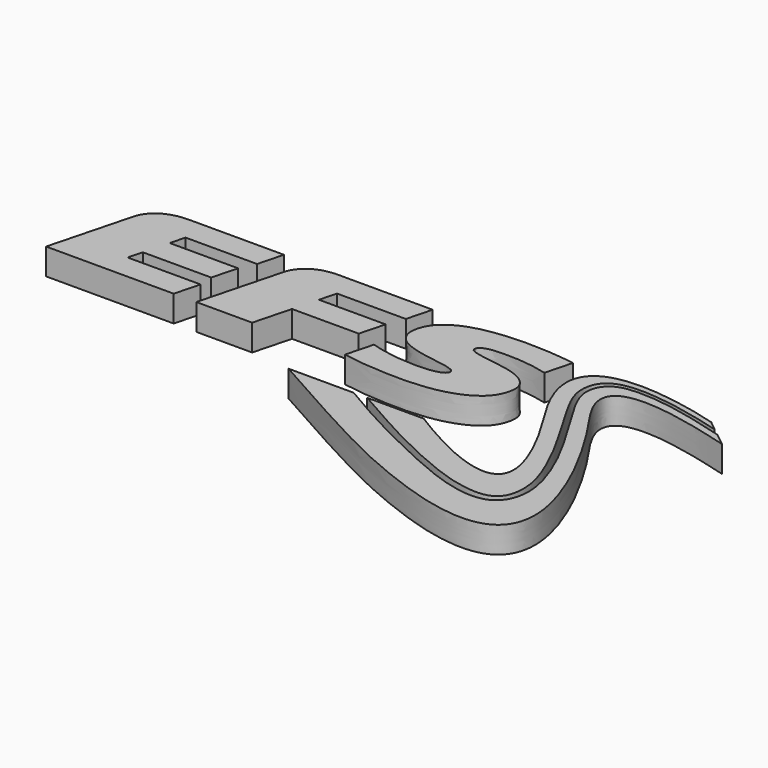
from build123d import *

# Parameters (mm, degrees)
F1_DEPTH = 25


with BuildPart() as f1:
    # F0 (on Top) → F1 (new body)
    with BuildSketch(Plane.XY):
        with BuildLine():
            add(Edge.make_bspline(
                [(65.1053886285, 53.0678573823), (65.106408714, 53.1253729675), (65.1054391941, 53.167987809), (65.1035589136, 53.2143526224)],
                knots=[0.2548003613, 0.2548003613, 0.2548003613, 0.2548003613, 0.2575078907, 0.2575078907, 0.2575078907, 0.2575078907], degree=3))
            add(Edge.make_bspline(
                [(-6.4750069795, 51.8545793182), (-4.7564794174, 51.3150577126), (-1.2853267932, 50.2253097921), (4.0556816627, 48.8459245903), (15.7458008252, 46.6829557105), (27.3229169713, 45.5740344497), (39.009802236, 45.1021194595), (48.3516484598, 45.5445931383), (52.4157911258, 46.0140461962), (56.3139933453, 46.7990069597), (57.9657692992, 47.268249845), (59.566365468, 47.7950634492), (60.8930649733, 48.331365039), (62.1522499352, 48.9667554739), (62.704988971, 49.306486098), (63.204860103, 49.6514156977), (63.6432446223, 50.0267041291), (63.8392101095, 50.2191211607), (64.0290658131, 50.4197310811), (64.1959330621, 50.6176411895), (64.3508827784, 50.8220030637), (64.4908717306, 51.0304059571), (64.6166529289, 51.2434131002), (64.7280873183, 51.4613687698), (64.8248912002, 51.6825568627), (64.908460838, 51.9130596352), (64.976812169, 52.1423040728), (65.0496684928, 52.4639664846), (65.0927512488, 52.7576911962), (65.1039285993, 52.9855364065), (65.1053886285, 53.0678573823)],
                knots=[0, 0, 0, 0, 0.016269349, 0.0328615, 0.0570438999, 0.081630088, 0.1060754368, 0.1274408983, 0.1418813972, 0.1556418843, 0.1649630275, 0.1739404304, 0.1825795876, 0.1908910253, 0.1965618364, 0.2020633991, 0.2074070516, 0.2111094535, 0.2147656383, 0.2183794928, 0.221956185, 0.2254999933, 0.2290168569, 0.2325131692, 0.235994531, 0.2394683145, 0.2429411505, 0.2469759554, 0.2509251255, 0.2548003613, 0.2548003613, 0.2548003613, 0.2548003613], degree=3))
            Line((-6.4750069795, 51.8545793182), (-13.2794216684, 25.9223838314))
            add(Edge.make_bspline(
                [(56.6837420385, 91.4326116427), (56.7189698525, 91.3800318433), (56.7933029667, 91.2759501481), (56.9156876392, 91.1242818426), (57.0497834839, 90.9757674533), (57.1934157963, 90.8321042311), (57.3557855454, 90.686686365), (57.522096221, 90.5475793139), (57.8974319015, 90.2746599233), (58.3002418739, 90.0343489069), (58.7685175699, 89.7938826423), (59.2591914138, 89.5759930618), (59.8692237293, 89.3519473457), (60.4888771948, 89.1261829554), (66.9152417299, 87.4709927018), (72.7123222805, 86.6093540954), (90.1270595552, 83.9253139455), (94.1752963581, 83.1105357573), (98.7395069237, 81.9616955906), (102.496476576, 80.7463973553), (106.3307087272, 79.1949622965), (108.0849910213, 78.3409198531), (109.8061367622, 77.3882760195), (111.343373611, 76.3871892229), (112.7934825808, 75.2955259088), (114.1273212624, 74.1296909505), (115.3655351658, 72.8655093402), (116.4546245772, 71.5831729107), (117.4753962723, 70.1435440124), (117.9231372368, 69.4039922659), (118.3441669363, 68.609550658), (118.694711555, 67.815964663), (119.0010955146, 66.9844183739), (119.2561459131, 66.1251475925), (119.4621134646, 65.2364173116), (119.6180009727, 64.3152111802), (119.7248841589, 63.3754411604), (119.7795271343, 62.3638132568), (119.7970359746, 61.3570362552), (119.677012081, 59.2105689242), (119.3394314405, 57.0568139734), (118.8106091865, 54.7013946816), (118.0734548534, 52.2550119289), (117.1668839205, 49.9152936778), (116.0911338098, 47.6765297039), (114.8491180024, 45.5502843891), (113.4397093484, 43.533165041), (111.8645303508, 41.6281602133), (110.1182656699, 39.827882727), (108.2246123371, 38.1617159456), (106.1137532637, 36.5343399425), (104.0192159014, 35.0176191349), (99.4681653908, 32.195304623), (94.7721533992, 29.9101988871), (89.551431638, 27.8582645654), (84.0883053888, 26.1507709951), (78.4758582842, 24.7071592311), (72.3756311978, 23.5194988328), (66.4253059076, 22.6106857638), (53.5993100437, 21.4124044187), (42.3963867487, 21.0182788824), (13.1760486388, 21.7811281314), (-4.5043994276, 24.5487695864), (-13.2794216684, 25.9223838314)],
                knots=[0.2829355753, 0.2829355753, 0.2829355753, 0.2829355753, 0.2860826793, 0.2892634632, 0.2924817535, 0.2957433914, 0.299050735, 0.3024070018, 0.3072658984, 0.3122837577, 0.3174686598, 0.3228260136, 0.3283586976, 0.3340677483, 0.3514945935, 0.3708553425, 0.4006155591, 0.4158744526, 0.430852138, 0.4455709509, 0.4600580904, 0.4701438221, 0.4800769734, 0.4898766025, 0.4995638713, 0.5091623681, 0.5186981223, 0.528198278, 0.5376915109, 0.5444042415, 0.551122061, 0.5578599742, 0.564632187, 0.5714524606, 0.578333581, 0.5852875227, 0.592324839, 0.599455166, 0.6066869103, 0.6171477535, 0.6279480272, 0.6391099759, 0.6506449997, 0.6620673416, 0.6734104352, 0.6847100717, 0.6960031943, 0.7073267558, 0.7187171838, 0.7302090128, 0.7417800571, 0.753386973, 0.7699113463, 0.7866395628, 0.8036311906, 0.8208641384, 0.8382873755, 0.855925648, 0.8738010897, 0.8989904439, 0.9236660821, 0.9621145446, 1, 1, 1, 1], degree=3))
            add(Edge.make_bspline(
                [(56.5842291559, 91.5913246567), (56.615629477, 91.5376273397), (56.6488308729, 91.484718824), (56.6837420385, 91.4326116427)],
                knots=[0.2798167593, 0.2798167593, 0.2798167593, 0.2798167593, 0.2829355753, 0.2829355753, 0.2829355753, 0.2829355753], degree=3))
            add(Edge.make_bspline(
                [(56.2063044894, 92.8003530603), (56.2110095342, 92.7388783468), (56.2241637827, 92.6169672534), (56.2554041651, 92.437053492), (56.2980474498, 92.2606123276), (56.3521149109, 92.0877295166), (56.4176054386, 91.9183339974), (56.4944297164, 91.7524931817), (56.5530595137, 91.6446274923), (56.5842291559, 91.5913246567)],
                knots=[0.2582675527, 0.2582675527, 0.2582675527, 0.2582675527, 0.261361347, 0.2644389931, 0.2675073836, 0.2705726173, 0.27364181, 0.2767208554, 0.2798167593, 0.2798167593, 0.2798167593, 0.2798167593], degree=3))
            add(Edge.make_bspline(
                [(56.1978051684, 92.9871020288), (56.1987441187, 92.9245331964), (56.201566306, 92.8622607509), (56.2063044894, 92.8003530603)],
                knots=[0.2551519683, 0.2551519683, 0.2551519683, 0.2551519683, 0.2582675527, 0.2582675527, 0.2582675527, 0.2582675527], degree=3))
            add(Edge.make_bspline(
                [(56.2777814175, 93.7692756474), (56.2640774764, 93.7038742866), (56.2388100813, 93.56836216), (56.2133327638, 93.3719390016), (56.1988075289, 93.1777579121), (56.1968577926, 93.0502323132), (56.1978051684, 92.9871020288)],
                knots=[0.2423616677, 0.2423616677, 0.2423616677, 0.2423616677, 0.2456182617, 0.2488320991, 0.2520084266, 0.2551519683, 0.2551519683, 0.2551519683, 0.2551519683], degree=3))
            add(Edge.make_bspline(
                [(56.3262393515, 93.9735544653), (56.30658345, 93.8990105284), (56.2916752834, 93.8355834141), (56.2777814175, 93.7692756474)],
                knots=[0.23905994, 0.23905994, 0.23905994, 0.23905994, 0.2423616677, 0.2423616677, 0.2423616677, 0.2423616677], degree=3))
            add(Edge.make_bspline(
                [(120.5790988713, 95.5491751076), (117.698927777, 96.2716499162), (111.8196459569, 97.7464348746), (102.1254722433, 99.3118565825), (91.9366818354, 100.3567833904), (81.1389683603, 100.6467735321), (73.8100941343, 100.455719137), (69.9403975511, 100.2243149721), (66.0704245205, 99.6678762374), (64.3307873172, 99.2976499957), (62.6111430005, 98.8419738161), (61.1320813159, 98.3388693444), (59.7173168226, 97.7371584465), (59.0528791616, 97.3753858861), (58.7406291473, 97.1819206627), (58.4506180367, 96.9853443075), (58.1855305509, 96.7846910252), (57.9343873233, 96.5737437533), (57.7001354205, 96.3542065384), (57.4819755946, 96.1255567719), (57.2800726315, 95.8880247768), (57.0944789274, 95.6414555023), (56.9252345214, 95.3859209928), (56.7721758329, 95.1213297686), (56.6355750943, 94.8483380132), (56.5148364597, 94.5643469248), (56.4121577356, 94.278938954), (56.3502234859, 94.0645129897), (56.3262393515, 93.9735544653)],
                knots=[0, 0, 0, 0, 0.0216079304, 0.0441081825, 0.0673611009, 0.0912544136, 0.1105574819, 0.1248281722, 0.138810933, 0.1484740345, 0.1578829947, 0.1670503658, 0.1759925216, 0.182154584, 0.18642434, 0.1906402202, 0.1948066099, 0.1989285363, 0.2030108117, 0.2070598043, 0.2110815274, 0.2150827267, 0.2190704542, 0.2230518393, 0.2270340185, 0.2310246808, 0.2350311714, 0.23905994, 0.23905994, 0.23905994, 0.23905994], degree=3))
            Line((120.5790988713, 95.5491751076), (127.3087903637, 121.1947546048))
            add(Edge.make_bspline(
                [(64.6356240774, 54.6785967465), (64.6085162846, 54.7194838225), (64.5505448825, 54.8021059488), (64.4618761589, 54.9202407657), (64.2593456613, 55.1544287569), (64.0379893623, 55.3655420065), (63.779693331, 55.57913729), (63.5037420958, 55.7774322779), (63.1723575263, 55.9806578859), (62.8329792767, 56.1747850813), (61.2383231305, 56.9120224411), (59.5981317553, 57.4854945061), (57.4071806029, 58.1017782972), (55.0366937227, 58.7061776501), (43.768281916, 60.4984635286), (31.484439337, 62.5273179424), (25.3068967926, 64.0493652385), (18.8675091469, 65.9851971147), (16.1114931936, 67.0191217946), (13.3161454195, 68.3674283582), (12.0998104104, 69.0753127546), (10.8672746455, 69.8447189227), (9.7529954451, 70.6317822862), (8.6793830811, 71.4688824465), (7.6773571065, 72.3536011237), (6.7457289042, 73.2884259796), (5.8858989494, 74.2719597295), (5.0974113134, 75.3058898533), (4.3821338158, 76.3853191341), (3.7337847706, 77.5282019639), (3.1766008575, 78.6678022808), (2.6750868288, 79.9185582815), (2.4624121706, 80.5538859106), (2.2673961311, 81.2229248564), (2.1087753252, 81.9123488484), (1.9731165927, 82.6009143341), (1.790222503, 84.0589463699), (1.7498859836, 85.5168385301), (1.8161983639, 87.110113073), (2.0013235275, 88.7489704368), (2.3138399746, 90.4976651978), (2.7257096387, 92.2807620691), (3.4807621552, 94.8163205627), (4.4103156513, 97.1687041689), (5.5288240549, 99.4558737216), (6.8202618054, 101.6042303112), (8.2884679437, 103.6334172853), (9.9331919122, 105.5372635151), (11.7519597177, 107.319679833), (13.750668578, 108.9683726472), (15.8858235789, 110.5132118718), (18.0821592074, 111.9613603853), (20.4797909047, 113.3633242584), (22.8689350693, 114.655860408), (28.0392001785, 117.0119184346), (33.3465285254, 118.8066534506), (39.1675947657, 120.3988050098), (45.0525808245, 121.691593962), (51.4379800667, 122.7355649282), (57.6746345774, 123.4944696124), (70.8743607342, 124.445918405), (82.4876876913, 124.8025845894), (105.8264483319, 124.0532220634), (120.1846553515, 122.1427009727), (127.3087903637, 121.1947546048)],
                knots=[0.2867820119, 0.2867820119, 0.2867820119, 0.2867820119, 0.2894836419, 0.2922051708, 0.296103831, 0.3000806715, 0.3041463188, 0.3083094914, 0.3125769432, 0.3169537408, 0.3260962616, 0.3358023893, 0.346063491, 0.3568655647, 0.3806044916, 0.406101998, 0.4241985807, 0.4420979717, 0.4545343656, 0.4666785116, 0.4751297598, 0.4835009923, 0.4918017383, 0.5000419962, 0.5082199105, 0.5163413275, 0.5244227379, 0.5324817738, 0.5405361765, 0.5486041575, 0.5567039205, 0.5648528202, 0.5706497463, 0.5764823702, 0.5823574045, 0.5882811262, 0.5967767924, 0.6054551816, 0.614339475, 0.6234483341, 0.6327952993, 0.642390759, 0.6538633054, 0.6652065576, 0.676456821, 0.6876529298, 0.6988356009, 0.7100459695, 0.7213243648, 0.7327089756, 0.7441776483, 0.75570103, 0.7672920913, 0.7789630201, 0.7956679358, 0.8126893759, 0.8299702342, 0.847434466, 0.8651037048, 0.8829969814, 0.9081933422, 0.9328548978, 0.966684505, 1, 1, 1, 1], degree=3))
            add(Edge.make_bspline(
                [(64.7120589428, 54.5565960772), (64.6877365734, 54.5976263539), (64.6625545518, 54.6379771224), (64.6356240774, 54.6785967465)],
                knots=[0.2840980538, 0.2840980538, 0.2840980538, 0.2840980538, 0.2867820119, 0.2867820119, 0.2867820119, 0.2867820119], degree=3))
            add(Edge.make_bspline(
                [(65.1035589136, 53.2143526224), (65.1016914928, 53.2604003351), (65.0961759584, 53.3596057203), (65.0806725467, 53.5003811598), (65.0586048592, 53.6406535806), (65.0295833234, 53.778226691), (64.9938067585, 53.9136810436), (64.9512197938, 54.0468625609), (64.9018457016, 54.1777953659), (64.8456368353, 54.3065560649), (64.7828298029, 54.4330058799), (64.7362494886, 54.5157881782), (64.7120589428, 54.5565960772)],
                knots=[0.2575078907, 0.2575078907, 0.2575078907, 0.2575078907, 0.2601969026, 0.2628703606, 0.265531851, 0.2681842568, 0.2708308526, 0.273475067, 0.2761203562, 0.2787706747, 0.2814286424, 0.2840980538, 0.2840980538, 0.2840980538, 0.2840980538], degree=3))
        make_face()
        with BuildLine():
            Line((65.1035589136, 53.2143526224), (65.1053886285, 53.0678573823))
            add(Edge.make_bspline(
                [(65.1053886285, 53.0678573823), (65.106408714, 53.1253729675), (65.1054391941, 53.167987809), (65.1035589136, 53.2143526224)],
                knots=[0.2548003613, 0.2548003613, 0.2548003613, 0.2548003613, 0.2575078907, 0.2575078907, 0.2575078907, 0.2575078907], degree=3))
        make_face()
        with BuildLine():
            Line((64.6356240774, 54.6785967465), (64.7120589428, 54.5565960772))
            add(Edge.make_bspline(
                [(64.7120589428, 54.5565960772), (64.6877365734, 54.5976263539), (64.6625545518, 54.6379771224), (64.6356240774, 54.6785967465)],
                knots=[0.2840980538, 0.2840980538, 0.2840980538, 0.2840980538, 0.2867820119, 0.2867820119, 0.2867820119, 0.2867820119], degree=3))
        make_face()
        with BuildLine():
            add(Edge.make_bspline(
                [(56.5842291559, 91.5913246567), (56.615629477, 91.5376273397), (56.6488308729, 91.484718824), (56.6837420385, 91.4326116427)],
                knots=[0.2798167593, 0.2798167593, 0.2798167593, 0.2798167593, 0.2829355753, 0.2829355753, 0.2829355753, 0.2829355753], degree=3))
            Line((56.6837420385, 91.4326116427), (56.5842291559, 91.5913246567))
        make_face()
        with BuildLine():
            add(Edge.make_bspline(
                [(56.1978051684, 92.9871020288), (56.1987441187, 92.9245331964), (56.201566306, 92.8622607509), (56.2063044894, 92.8003530603)],
                knots=[0.2551519683, 0.2551519683, 0.2551519683, 0.2551519683, 0.2582675527, 0.2582675527, 0.2582675527, 0.2582675527], degree=3))
            Line((56.2063044894, 92.8003530603), (56.1978051684, 92.9871020288))
        make_face()
        with BuildLine():
            Line((56.2777814175, 93.7692756474), (56.3262393515, 93.9735544653))
            add(Edge.make_bspline(
                [(56.3262393515, 93.9735544653), (56.30658345, 93.8990105284), (56.2916752834, 93.8355834141), (56.2777814175, 93.7692756474)],
                knots=[0.23905994, 0.23905994, 0.23905994, 0.23905994, 0.2423616677, 0.2423616677, 0.2423616677, 0.2423616677], degree=3))
        make_face()
    extrude(amount=F1_DEPTH)


with BuildPart() as f1b:
    # F0 (on Top) → F1, piece 2 (new body)
    with BuildSketch(Plane.XY):
        with BuildLine():
            Line((-148.9237439745, 122.9140964033), (-239.6293233655, 122.9140964033))
            add(Edge.make_bspline(
                [(-274.2237434433, 102.5078760808), (-274.1092906231, 102.8461636404), (-273.8683146334, 103.5584150236), (-273.3544206724, 104.8036962984), (-272.6815477394, 106.2064336434), (-271.8195639474, 107.7434796434), (-270.7497965347, 109.3750463916), (-269.4582348147, 111.0608078587), (-267.8964617456, 112.7825003422), (-266.1575128953, 114.4279698236), (-264.0209718031, 116.0678571269), (-262.8579919215, 116.837839109), (-261.5912393622, 117.6216302644), (-260.2305784346, 118.3606117932), (-258.827328973, 119.0681458874), (-255.6996260635, 120.37463418), (-252.3556309159, 121.3790735368), (-248.4894480596, 122.2052441075), (-244.2692900793, 122.7592211305), (-241.1987255335, 122.8617120644), (-239.6293233655, 122.9140964033)],
                knots=[0, 0, 0, 0, 0.0385534563, 0.0811728122, 0.127173583, 0.1760655994, 0.2274942087, 0.2812188193, 0.3370909919, 0.3950505888, 0.4551157064, 0.4987426001, 0.543168272, 0.5884182278, 0.6345264794, 0.7016485405, 0.7715194258, 0.8443755789, 0.920458502, 1, 1, 1, 1], degree=3))
            Line((-274.2237434433, 102.5078760808), (-295.1153104052, 22.9140964033))
            Line((-295.1153104052, 22.9140964033), (-173.7815426622, 22.9140964033))
            Line((-173.7815426622, 22.9140964033), (-167.4641862815, 46.9831699124))
            Line((-167.4641862815, 46.9831699124), (-236.853586802, 46.9831699124))
            Line((-236.853586802, 46.9831699124), (-233.2812159695, 60.595540674))
            Line((-233.2812159695, 60.595540674), (-168.253796806, 60.595540674))
            Line((-168.253796806, 60.595540674), (-161.9364404254, 84.6629025143))
            Line((-161.9364404254, 84.6629025143), (-226.9656893038, 84.6629025143))
            Line((-226.9656893038, 84.6629025143), (-223.2429867322, 98.8449638711))
            Line((-223.2429867322, 98.8449638711), (-155.2393296633, 98.8449638711))
            Line((-155.2393296633, 98.8449638711), (-148.9237439745, 122.9140964033))
        make_face()
    extrude(amount=F1_DEPTH)


with BuildPart() as f1c:
    # F0 (on Top) → F1, piece 3 (new body)
    with BuildSketch(Plane.XY):
        with BuildLine():
            Line((-7.5010048676, 122.9140964033), (-99.7276085685, 122.9140964033))
            add(Edge.make_bspline(
                [(-131.3827982007, 102.6248007668), (-131.2726841086, 102.9496228763), (-131.0412547837, 103.6323089889), (-130.5542314437, 104.8200824686), (-129.9218215704, 106.1552602631), (-129.116760354, 107.6178153), (-128.1239522267, 109.1714926222), (-126.9250139074, 110.7847855846), (-125.5020893183, 112.4247728474), (-123.8373869148, 114.0586820409), (-121.9131733005, 115.6538167717), (-119.7116119003, 117.1771463405), (-117.2152078019, 118.5959018526), (-114.4061232661, 119.8767361711), (-111.2680775204, 120.9884354691), (-107.7794419697, 121.8918351297), (-103.9397676878, 122.5792957191), (-101.151233577, 122.8009405102), (-99.7276085685, 122.9140964033)],
                knots=[0, 0, 0, 0, 0.0412512034, 0.0866986048, 0.1356590704, 0.1876337963, 0.2422610502, 0.2992832368, 0.358539368, 0.4199480924, 0.4835064589, 0.5492794849, 0.6173912495, 0.6880141901, 0.7613549583, 0.8376420393, 0.9171116995, 1, 1, 1, 1], degree=3))
            Line((-131.3827982007, 102.6248007668), (-152.305116178, 22.9140964033))
            Line((-152.305116178, 22.9140964033), (-99.1737361539, 22.9140964033))
            Line((-99.1737361539, 22.9140964033), (-89.8098454009, 58.5873400097))
            Line((-89.8098454009, 58.5873400097), (-26.3676676388, 58.5873400097))
            Line((-26.3676676388, 58.5873400097), (-20.0494259122, 82.6564725419))
            Line((-20.0494259122, 82.6564725419), (-83.4925480433, 82.6564725419))
            Line((-83.4925480433, 82.6564725419), (-79.2440680347, 98.8449638711))
            Line((-79.2440680347, 98.8449638711), (-13.8200729171, 98.8449638711))
            Line((-13.8200729171, 98.8449638711), (-7.5010048676, 122.9140964033))
        make_face()
    extrude(amount=F1_DEPTH)


with BuildPart() as f1d:
    # F0 (on Top) → F1, piece 4 (new body)
    with BuildSketch(Plane.XY):
        with BuildLine():
            Line((276.226691055, 103.4380205161), (267.0087643345, 110.8376827862))
            add(Edge.make_bspline(
                [(267.0087643345, 110.8376827862), (264.7208532905, 111.5070274429), (258.7987440088, 113.2395826552), (239.3412274924, 118.1318902094), (214.169834545, 122.3754224413), (199.7707236195, 123.4744736982), (192.5127934377, 123.722184303), (185.5421811341, 123.6762903873), (178.9269883589, 123.2390484271), (172.8166553184, 122.4813554942), (166.8094148421, 121.1383440735), (164.039247253, 120.2917008114), (161.2872970884, 119.3241865808), (158.7976400361, 118.2544016631), (156.4010750486, 117.0193073127), (154.2532282664, 115.713526792), (152.185623885, 114.157991616), (151.2416087334, 113.3374269991), (150.2978701027, 112.4588566006), (149.4442428354, 111.5719464518), (148.6274738028, 110.63579821), (147.863380888, 109.6604544967), (147.1494039038, 108.6423776466), (146.4877922677, 107.581724522), (145.8796426162, 106.4775517307), (145.3262048735, 105.3293060958), (144.8288591117, 104.1362637694), (144.3887719378, 102.8975745404), (144.0072284432, 101.6139725819), (143.6854203406, 100.2792432796), (143.4251439549, 98.9135718903), (143.2256407119, 97.4374649898), (143.076700818, 95.9649320465), (142.9770295791, 92.8038404164), (143.1851115004, 89.6060564577), (143.6634468668, 86.0531238178), (144.4186012929, 82.3667815344), (145.538566587, 78.2892421542), (146.8848639871, 74.071635063), (150.5787324887, 64.8884453216), (155.7975375184, 54.7966387355), (162.4250351293, 43.8030171814), (178.9185092628, 17.2109113227), (189.8615554939, -4.7234757484), (194.0090775764, -14.5353980327), (197.0973465862, -22.8096997615), (199.079820258, -30.1769346217), (199.7059509945, -33.4367745331), (200.1587953391, -36.5505562434), (200.3669973821, -39.1876700839), (200.3446454937, -41.7621928537), (200.2530996285, -42.9339636404), (200.1231469054, -44.0902873208), (199.9438711373, -45.1425987166), (199.7162672274, -46.1538263415), (199.4411572528, -47.108554792), (199.1193984595, -48.0117853316), (198.7519516545, -48.8632324507), (198.3396747629, -49.6639855611), (197.8834413471, -50.4146884626), (197.3841430687, -51.116168961), (196.8427378186, -51.7691286468), (196.2601581002, -52.3744738891), (195.6373409228, -52.9328296746), (194.9752503462, -53.4451393192), (194.274762636, -53.9121138115), (193.5368746423, -54.3346205968), (192.7623017791, -54.7134474678), (191.9528822162, -55.0493520217), (191.1059938027, -55.3435610759), (190.2359310071, -55.5954560206), (189.2929450255, -55.8114932427), (188.3527342435, -55.9931703745), (186.3394288709, -56.2423638574), (184.3043302677, -56.3082515011), (182.0987748861, -56.2538942583), (179.7186306604, -56.040792147), (177.3015254925, -55.7344071963), (172.1775769416, -54.7515912191), (166.8023006025, -53.2364324077), (161.2085779716, -51.4757290046), (148.9616812868, -46.6174141078), (137.636680341, -41.3744040147), (114.4458797879, -29.0119769729), (102.4305271833, -21.5353767848), (96.7128876266, -17.977553191)],
                knots=[0, 0, 0, 0, 0.0179256495, 0.0463993805, 0.0791756364, 0.1030152572, 0.1197747646, 0.1363530671, 0.1526702292, 0.1686545234, 0.1842478273, 0.1950503665, 0.2056995771, 0.2161974135, 0.2265511501, 0.2367741065, 0.246887119, 0.2539931067, 0.2610766024, 0.2681446376, 0.2752049851, 0.2822662225, 0.2893373071, 0.2964278098, 0.303547755, 0.3107073834, 0.3179172953, 0.3251875473, 0.3325284955, 0.3399503387, 0.3474622937, 0.3550739475, 0.3627935086, 0.3739614916, 0.3854980017, 0.3974368503, 0.4098054007, 0.4226256106, 0.4359145327, 0.4557391943, 0.476978944, 0.499663539, 0.5354780087, 0.5672471023, 0.5875280197, 0.6063502763, 0.6237164193, 0.6352310488, 0.6462459164, 0.6567735288, 0.6668324397, 0.6737083472, 0.6804340629, 0.6870166308, 0.6934645754, 0.6997871496, 0.7059952559, 0.7121010068, 0.7181177782, 0.7240598341, 0.7299424448, 0.7357811106, 0.7415919091, 0.747390085, 0.7531908368, 0.7590081456, 0.7648549066, 0.7707423391, 0.7766804487, 0.7826777255, 0.788741003, 0.7948758369, 0.8010867238, 0.8100388561, 0.8192248265, 0.8286471672, 0.8383017617, 0.8481812611, 0.8625977057, 0.8775460168, 0.8929432981, 0.9154257107, 0.9384416559, 0.9707067753, 1, 1, 1, 1], degree=3))
            Line((96.7128876266, -17.977553191), (42.9528529682, -18.0373435529))
            add(Edge.make_bspline(
                [(42.9528529682, -18.0373435529), (47.0494555058, -20.3502088186), (58.0972140907, -26.5875669368), (99.041448837, -49.8406323135), (136.189218255, -67.4662361913), (159.0350619742, -76.7133221163), (171.654026366, -80.9172623147), (178.0648470906, -82.6349011433), (184.1212139183, -84.0150810024), (191.5834881277, -85.2189720904), (195.1373870463, -85.6038755699), (198.819124233, -85.8603329244), (202.0856199526, -85.9010135119), (205.4231066067, -85.6576891025), (206.9913073327, -85.4314064727), (208.5757238787, -85.1433578243), (210.0452835334, -84.7820992942), (211.4819193834, -84.3377991378), (212.8600418914, -83.8078183933), (214.1821964616, -83.1872701266), (215.4436163404, -82.4723015693), (216.6414287009, -81.6585856364), (217.7720896037, -80.741781722), (218.8323808007, -79.7179214937), (219.8188518911, -78.5828011803), (220.7282635047, -77.3324320843), (221.5573004155, -75.9627983494), (222.3027221695, -74.4697780387), (222.9614726705, -72.8494010165), (223.5302342823, -71.0979300274), (224.0060281356, -69.2092773073), (224.3855028675, -67.1877665841), (224.6659296845, -64.9957817967), (224.8464511128, -62.7093928786), (224.9218162808, -59.8108474381), (224.8903351903, -57.0801855766), (224.4707250388, -51.6187463441), (223.5053648124, -46.3555844825), (222.3588758239, -41.2737427837), (218.9223059469, -30.9628617074), (215.4024345273, -22.2289629505), (206.1069987251, -1.8897198662), (197.9132966586, 13.3823996636), (176.5743631881, 50.0765744764), (172.1081848618, 57.5103049482), (165.9132363115, 68.8003487073), (163.5674058342, 73.8453502465), (161.2973871978, 79.5685492465), (160.4914857311, 82.2088881952), (159.7916693919, 84.8018702234), (159.3497224368, 87.297343862), (159.2128494837, 88.5580376126), (159.1168301331, 89.7651666704), (159.0679400466, 92.3736209012), (159.1901342954, 94.7037390806), (159.4586606656, 97.0019147884), (159.8731683069, 99.1208567918), (160.4259287675, 101.1041480615), (161.1107575276, 102.9464638355), (161.9210571359, 104.6550311862), (162.8504629207, 106.2336019984), (163.8921953296, 107.6871678147), (165.0396156812, 109.0203038539), (166.2862360705, 110.2376259247), (167.6249862193, 111.3442053845), (169.0499915619, 112.3447025841), (170.552728224, 113.2437901992), (172.133336489, 114.0477641531), (173.7603537422, 114.7557138189), (175.5209772206, 115.3948545205), (177.2717423022, 115.954045075), (180.9378173475, 116.8547726163), (184.7409253785, 117.4023870389), (188.5617213846, 117.8151319221), (196.6949314607, 117.9832667649), (203.7825425577, 117.757797816), (219.6126806545, 116.1422217866), (234.1592816441, 113.9018281895), (265.3529851378, 106.6333943723), (273.2747149182, 104.3054954546), (276.226691055, 103.4380205161)],
                knots=[0, 0, 0, 0, 0.0237137106, 0.0639513713, 0.1025011606, 0.1312886429, 0.1520894917, 0.1668109123, 0.1815021026, 0.197518327, 0.2086794653, 0.2196802369, 0.2304901203, 0.241088255, 0.2484673415, 0.2557708817, 0.2630028584, 0.2701698553, 0.2772817482, 0.2843514885, 0.2913955998, 0.2984342825, 0.3054909423, 0.3125914794, 0.3197636533, 0.3270359924, 0.3344366494, 0.3419928566, 0.3497293769, 0.3576690584, 0.3658314985, 0.3742340355, 0.382891205, 0.3918153407, 0.401623241, 0.4113576403, 0.4249983768, 0.4385147947, 0.4519395148, 0.4707601131, 0.4893245957, 0.516004992, 0.5423646244, 0.5797247763, 0.5981388327, 0.6182622917, 0.6326516491, 0.64679612, 0.65656155, 0.666116727, 0.6754290905, 0.6818744944, 0.6882230737, 0.697629252, 0.7067481417, 0.7155996883, 0.7242071469, 0.7325965931, 0.7407969117, 0.7488389122, 0.7567543426, 0.7645752267, 0.7723320213, 0.780052844, 0.7877624232, 0.7954815354, 0.8032266521, 0.8110099884, 0.8188398112, 0.8267210683, 0.8346552974, 0.8459826292, 0.8574326279, 0.8689640549, 0.8852849068, 0.9013043215, 0.9238702738, 0.9475554348, 0.9804569066, 1, 1, 1, 1], degree=3))
        make_face()
    extrude(amount=F1_DEPTH)


with BuildPart() as f1e:
    # F0 (on Top) → F1, piece 5 (new body)
    with BuildSketch(Plane.XY):
        with BuildLine():
            add(Edge.make_bspline(
                [(283.0855840302, 98.0307407297), (274.9595700371, 100.3326126157), (258.7917651824, 104.9124983365), (233.7111930289, 110.5178336071), (221.5414869755, 112.4478487206), (209.8438460306, 113.9087843012), (198.3410150498, 114.3557336735), (193.1361474086, 114.2584003629), (187.5310910975, 113.9171745544), (185.4563020902, 113.6625101627), (183.2244849425, 113.2875761068), (181.1291742582, 112.7911142422), (179.0006805775, 112.1337039047), (177.0095343154, 111.3689003209), (174.9991652548, 110.3679786679), (174.0502713815, 109.8108025616), (173.0841128563, 109.1985391198), (172.1895938279, 108.5602629723), (171.3155454483, 107.8685345731), (170.4796489745, 107.1289434811), (169.6806165959, 106.3384899317), (168.922491543, 105.4962340033), (168.2079315393, 104.6008173393), (167.5399686156, 103.651011819), (166.921274841, 102.6455844737), (166.3550399767, 101.583099409), (165.8440148333, 100.4624563202), (165.3910415924, 99.2823718452), (164.9991468613, 98.0415173434), (164.6711229962, 96.7387919288), (164.4098167486, 95.3723763012), (164.2183692527, 93.9433162914), (164.0989989605, 92.441531954), (164.0563733896, 90.8993005749), (164.085496621, 89.2712881318), (164.1974342933, 87.9922399073), (164.3795408289, 86.6589417197), (164.9746048856, 83.8916012841), (165.8941485988, 81.0014045743), (166.8596217718, 78.2057209742), (169.6302656504, 72.0209324265), (171.6994974457, 67.6298996013), (200.382717726, 20.6206805999), (211.7042633544, -0.5490592892), (218.1125535418, -14.0693950856), (223.5047226001, -26.9948416823), (227.3573484135, -38.5692807996), (229.0596743889, -45.1678511616), (230.3821199617, -52.6694102271), (230.7244875713, -56.325008094), (230.9358396869, -60.1729529873), (230.8617898467, -63.8871691382), (230.5605417059, -67.4562271728), (229.8732025122, -71.1172363297), (229.407892507, -72.8738882681), (228.8572794349, -74.6768583662), (228.2323187541, -76.3629300107), (227.4868541176, -78.0652849331), (226.7136442485, -79.6055685466), (225.7419209625, -81.2411726701), (225.4261924566, -81.6871515901), (225.0154823127, -82.2299791969), (224.0778829764, -83.3448109571), (221.8698530691, -85.5966454749), (219.4633943749, -87.6414155693), (218.2674977374, -88.5006695645), (217.6984518457, -88.8659271101), (217.227993653, -89.141388184), (216.1280800659, -89.6760121478), (215.0999628837, -90.1318938808), (212.8020196787, -90.9720224792), (210.5144258925, -91.5627312893), (208.0223568203, -92.0330012978), (205.4506648125, -92.3320611249), (202.8141682504, -92.4884298536), (199.969024976, -92.4864665039), (197.1862837174, -92.3971222658), (191.0577735402, -91.752525994), (185.224106605, -90.7545973019), (172.487481233, -87.5532009528), (160.2260936033, -83.2387373974), (147.3386931093, -78.1324247551), (125.6111238101, -68.5945456932), (75.7156121427, -44.8091696137), (45.3449043038, -26.9114161762), (30.2311992365, -18.0047628226)],
                knots=[0, 0, 0, 0, 0.0294487699, 0.0585923142, 0.0788190019, 0.098687712, 0.1181371754, 0.1316504224, 0.1449988357, 0.1534225984, 0.1619241584, 0.1704761116, 0.1790567464, 0.1876501272, 0.1962476681, 0.202329754, 0.2084145196, 0.214504572, 0.2206033771, 0.2267150833, 0.2328455852, 0.2390017211, 0.2451910581, 0.2514222424, 0.2577050681, 0.2640498283, 0.2704671784, 0.2769683451, 0.2835645646, 0.2902671043, 0.2970867878, 0.3040340253, 0.3111191889, 0.3183512921, 0.325739398, 0.3321958082, 0.3388347188, 0.3485443302, 0.3585618979, 0.3687363773, 0.3830121946, 0.3963281487, 0.4386688623, 0.4686975617, 0.4901900637, 0.5119674921, 0.5319966696, 0.5473256229, 0.5630064682, 0.5741730956, 0.5853446912, 0.5964957384, 0.6076100919, 0.6186837728, 0.6264976, 0.6343047202, 0.6421109188, 0.6499240079, 0.6577532926, 0.665609714, 0.6698215825, 0.6743290833, 0.6811841347, 0.6916323636, 0.7020935236, 0.7089743509, 0.7135090364, 0.7177560831, 0.724003596, 0.7302758367, 0.7392121844, 0.7482569115, 0.757426227, 0.7667300274, 0.7761727891, 0.7857549091, 0.7954730833, 0.8094866181, 0.8238197262, 0.8445843625, 0.8656629428, 0.8865952348, 0.9144172796, 0.9574105417, 1, 1, 1, 1], degree=3))
            Line((30.2311992365, -18.0047628226), (-31.9255742796, -17.977553191))
            add(Edge.make_bspline(
                [(-31.9255742796, -17.977553191), (11.8304690401, -42.5832348746), (82.3215244139, -82.2230271975), (132.2117430268, -103.0470714256), (153.3641574159, -111.0674256188), (171.8396697032, -117.057650496), (187.1805171833, -121.1404398969), (201.6143615504, -123.7128950438), (207.9942974755, -124.3947806836), (214.1170360271, -124.8203194858), (219.541357059, -124.8583925966), (224.66924281, -124.5598859115), (229.1903563003, -123.9921854258), (233.5405090811, -123.0165041162), (235.5246757408, -122.4223941967), (237.4884724448, -121.7598390536), (239.274397354, -121.0436791304), (240.9908316441, -120.2521196205), (242.6112234934, -119.3927048688), (244.1441424477, -118.4651079982), (245.5890234393, -117.4712825025), (246.9477025004, -116.4125339816), (248.2213368945, -115.290227833), (249.4113949025, -114.1058581586), (250.5191212338, -112.8607892836), (251.5458265135, -111.5566633187), (252.4931859049, -110.1944667978), (253.3618285404, -108.7771892777), (254.155080095, -107.3001479101), (254.8676227537, -105.7884348034), (255.5254226626, -104.15405948), (256.1102135718, -102.5353993356), (257.0816860611, -99.0769512872), (257.690637369, -95.5957564766), (258.0888868321, -91.7999246911), (258.2181100117, -87.8702656045), (258.1187379579, -83.8246912135), (257.755167623, -79.4666462078), (257.2329033015, -75.1034156689), (255.5619108298, -65.9657692881), (252.9756655075, -56.5298352087), (249.9754333712, -46.8169544217), (241.7511213626, -26.0148498468), (232.5626342944, -6.6685474434), (212.7709581967, 29.5419851044), (192.9638111825, 58.6101113612), (188.2981190132, 65.3710299799), (184.5933026964, 71.9784945447), (183.2825209007, 74.7660452727), (182.0913606155, 77.5381045076), (181.2002217617, 80.0283460269), (180.5105522413, 82.4337368681), (180.0439500629, 84.5963273277), (179.7948026988, 86.7396457105), (179.7508775263, 87.7383255295), (179.7422218192, 88.7366088202), (179.7875533463, 89.6606212284), (179.8796180975, 90.5632582686), (180.0192088467, 91.431153167), (180.205035933, 92.2683100695), (180.4366129615, 93.074216936), (180.7129198383, 93.8495342455), (181.0332536057, 94.5945868432), (181.3967971555, 95.3097112028), (181.8025879919, 95.9953873877), (182.2499194048, 96.6520784825), (182.7381069554, 97.2799978637), (183.2660099241, 97.8797452536), (183.8330741267, 98.4518320184), (184.4379070671, 98.9960518228), (185.0823261479, 99.5145514527), (185.7546382995, 100.002164315), (186.4955834026, 100.4801514148), (187.2396071297, 100.9254532333), (188.8651159745, 101.75520534), (190.5447070361, 102.4281064132), (192.4208872672, 103.0475322707), (194.3718882327, 103.5625006919), (196.5279882541, 104.0024662095), (198.7194951816, 104.3687213895), (203.4252327307, 104.8665901387), (208.4527372103, 104.9780007995), (213.7363363081, 104.93164628), (225.4403413618, 103.9903269856), (237.0456460341, 102.3226201299), (261.2847234095, 97.6344780617), (283.0883903037, 91.6712609728), (295.1153104052, 88.381945656)],
                knots=[0, 0, 0, 0, 0.0631330632, 0.1017074651, 0.1267012757, 0.1501753944, 0.1721335425, 0.1925897995, 0.206270405, 0.2194405479, 0.2321132379, 0.2443059211, 0.2560420305, 0.2673519425, 0.2751406558, 0.2828004398, 0.2903401636, 0.2977694543, 0.3050990534, 0.3123401751, 0.3195046435, 0.3266048181, 0.3336534449, 0.3406633962, 0.347647259, 0.3546172988, 0.3615855971, 0.3685632639, 0.3755604737, 0.3825866621, 0.3896504345, 0.3967589526, 0.40692308, 0.4172593517, 0.4277860574, 0.438512943, 0.4494436322, 0.4605766632, 0.4719066437, 0.4883223406, 0.5052103402, 0.5224964917, 0.5475538837, 0.5730220855, 0.6084479417, 0.6403114488, 0.6557093746, 0.6700436109, 0.6796211319, 0.6888335238, 0.6976885744, 0.7061972662, 0.714374975, 0.7222422629, 0.7276526019, 0.7329685817, 0.7381964745, 0.7433435978, 0.7484175882, 0.7534268876, 0.758380756, 0.7632886137, 0.7681602867, 0.773005525, 0.7778342593, 0.7826564445, 0.78748113, 0.7923170536, 0.7971723052, 0.8020541253, 0.8069689155, 0.8119223882, 0.8169194514, 0.8219640045, 0.829207062, 0.8366068089, 0.8441704187, 0.8518999662, 0.8597941118, 0.8678489554, 0.8795625067, 0.8916693135, 0.90411772, 0.9222884443, 0.9409450288, 0.9674252306, 1, 1, 1, 1], degree=3))
            Line((295.1153104052, 88.381945656), (283.0855840302, 98.0307407297))
        make_face()
    extrude(amount=F1_DEPTH)


solid = Compound([f1.part, f1b.part, f1c.part, f1d.part, f1e.part])
